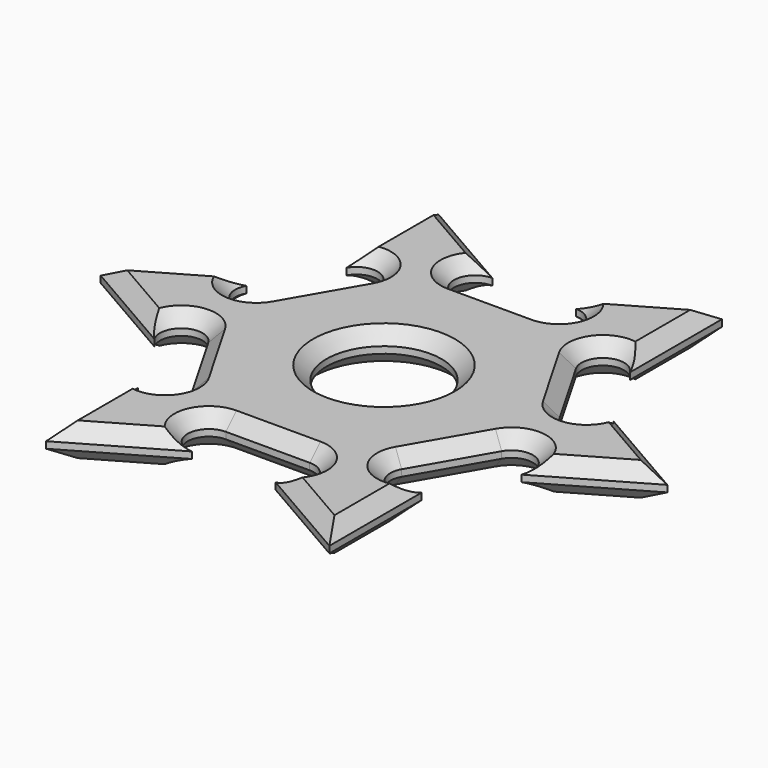
from build123d import *

# Parameters (mm, degrees)
F0_R     = 11
F1_DEPTH = 6.35
F2_SIZE  = 2.54


with BuildPart() as f1:
    # F0 (on Top) → F1 (new body)
    with BuildSketch(Plane.XY):
        with BuildLine():
            ThreePointArc((-45.635105, 5.008696), (-44.147658, 10.559926), (-38.596428, 9.072478))
            Line((-38.596428, 9.072478), (-30.58888, -4.797003))
            ThreePointArc((-30.58888, -4.797003), (-32.076327, -10.348232), (-37.627557, -8.860785))
            Line((-37.627557, -8.860785), (-37.627557, -30.85783))
            Line((-37.627557, -30.85783), (-18.577557, -19.859307))
            ThreePointArc((-18.577557, -19.859307), (-22.641339, -15.795525), (-18.577557, -11.731743))
            Line((-18.577557, -11.731743), (-2.562459, -11.731743))
            ThreePointArc((-2.562459, -11.731743), (1.501323, -15.795525), (-2.562459, -19.859307))
            Line((-2.562459, -19.859307), (16.487541, -30.85783))
            Line((16.487541, -30.85783), (16.487541, -8.860785))
            ThreePointArc((16.487541, -8.860785), (10.936311, -10.348232), (9.448863, -4.797003))
            Line((9.448863, -4.797003), (17.456412, 9.072478))
            ThreePointArc((17.456412, 9.072478), (23.007642, 10.559926), (24.495089, 5.008696))
            Line((24.495089, 5.008696), (43.545089, 16.007219))
            Line((43.545089, 16.007219), (24.495089, 27.005742))
            ThreePointArc((24.495089, 27.005742), (23.007642, 21.454512), (17.456412, 22.941959))
            Line((17.456412, 22.941959), (9.448863, 36.81144))
            ThreePointArc((9.448863, 36.81144), (10.936311, 42.36267), (16.487541, 40.875223))
            Line((16.487541, 40.875223), (16.487541, 62.872268))
            Line((16.487541, 62.872268), (-2.562459, 51.873745))
            ThreePointArc((-2.562459, 51.873745), (1.501323, 47.809963), (-2.562459, 43.746181))
            Line((-2.562459, 43.746181), (-18.577557, 43.746181))
            ThreePointArc((-18.577557, 43.746181), (-22.641339, 47.809963), (-18.577557, 51.873745))
            Line((-18.577557, 51.873745), (-37.627557, 62.872268))
            Line((-37.627557, 62.872268), (-37.627557, 40.875223))
            ThreePointArc((-37.627557, 40.875223), (-32.076327, 42.36267), (-30.58888, 36.81144))
            Line((-30.58888, 36.81144), (-38.596428, 22.941959))
            ThreePointArc((-38.596428, 22.941959), (-44.147658, 21.454512), (-45.635105, 27.005742))
            Line((-45.635105, 27.005742), (-64.685105, 16.007219))
            Line((-64.685105, 16.007219), (-45.635105, 5.008696))
        make_face()
        with Locations((-10.570008, 16.007219)):
            Circle(F0_R, mode=Mode.SUBTRACT)
    extrude(amount=F1_DEPTH)

    # F2
    f2_edges = [f1.edges().sort_by_distance(p)[0] for p in [
        (-44.147658, 21.454512, 6.35),
        (-55.160105, 21.50648, 6.35),
        (-55.160105, 10.507958, 6.35),
        (-44.147658, 10.559926, 6.35),
        (-34.592654, 2.137738, 6.35),
        (-32.076327, -10.348232, 6.35),
        (-37.627557, -19.859307, 6.35),
        (-28.102557, -25.358569, 6.35),
        (-22.641339, -15.795525, 6.35),
        (-10.570008, -11.731743, 6.35),
        (1.501323, -15.795525, 6.35),
        (6.962541, -25.358569, 6.35),
        (16.487541, -19.859307, 6.35),
        (10.936311, -10.348232, 6.35),
        (13.452638, 2.137738, 6.35),
        (23.007642, 10.559926, 6.35),
        (34.020089, 10.507958, 6.35),
        (34.020089, 21.50648, 6.35),
        (23.007642, 21.454512, 6.35),
        (13.452638, 29.8767, 6.35),
        (10.936311, 42.36267, 6.35),
        (16.487541, 51.873745, 6.35),
        (6.962541, 57.373007, 6.35),
        (1.501323, 47.809963, 6.35),
        (-10.570008, 43.746181, 6.35),
        (-22.641339, 47.809963, 6.35),
        (-28.102557, 57.373007, 6.35),
        (-37.627557, 51.873745, 6.35),
        (-32.076327, 42.36267, 6.35),
        (-34.592654, 29.8767, 6.35),
        (-21.570008, 16.007219, 6.35),
        (-44.147658, 21.454512, 0),
        (-55.160105, 21.50648, 0),
        (-55.160105, 10.507958, 0),
        (-44.147658, 10.559926, 0),
        (-34.592654, 2.137738, 0),
        (-32.076327, -10.348232, 0),
        (-37.627557, -19.859307, 0),
        (-28.102557, -25.358569, 0),
        (-22.641339, -15.795525, 0),
        (-10.570008, -11.731743, 0),
        (1.501323, -15.795525, 0),
        (6.962541, -25.358569, 0),
        (16.487541, -19.859307, 0),
        (10.936311, -10.348232, 0),
        (13.452638, 2.137738, 0),
        (23.007642, 10.559926, 0),
        (34.020089, 10.507958, 0),
        (34.020089, 21.50648, 0),
        (23.007642, 21.454512, 0),
        (13.452638, 29.8767, 0),
        (10.936311, 42.36267, 0),
        (16.487541, 51.873745, 0),
        (6.962541, 57.373007, 0),
        (1.501323, 47.809963, 0),
        (-10.570008, 43.746181, 0),
        (-22.641339, 47.809963, 0),
        (-28.102557, 57.373007, 0),
        (-37.627557, 51.873745, 0),
        (-32.076327, 42.36267, 0),
        (-34.592654, 29.8767, 0),
        (-21.570008, 16.007219, 0),
    ]]
    chamfer(f2_edges, length=F2_SIZE)


solid = f1.part
